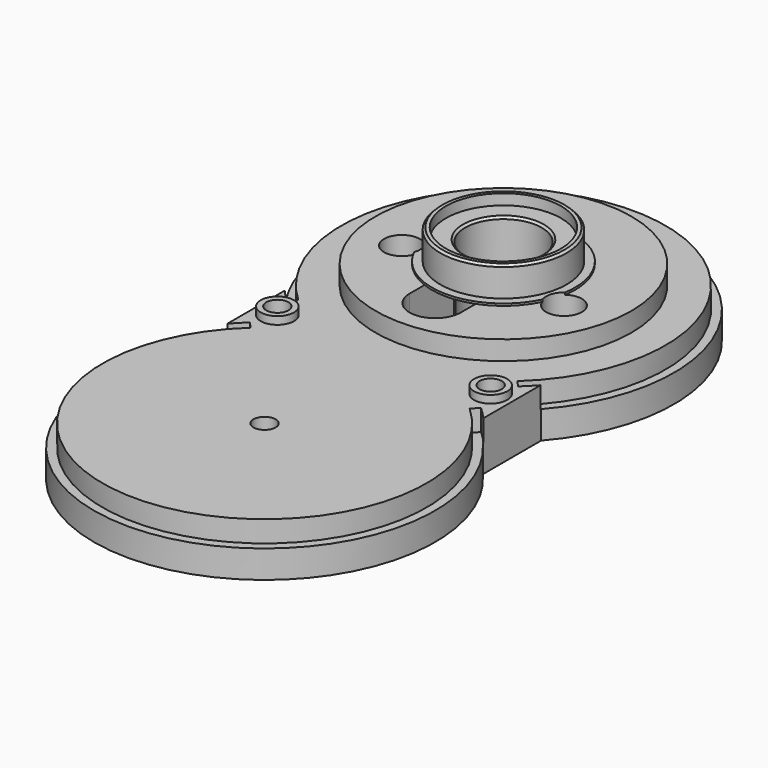
from build123d import *

# Parameters (mm, degrees)
SKETCH030_R     = 3.9
PAD005_DEPTH    = 1.8
SKETCH029_R     = 2.6
PAD006_DEPTH    = 11.5
SKETCH033_R     = 2.6
POCKET_DEPTH    = 14
POCKET011_DEPTH = 5
SKETCH034_R     = 3.15
POCKET012_DEPTH = 7.8
POCKET013_DEPTH = 16
SKETCH036_R     = 2
POCKET014_DEPTH = 16
SKETCH037_R     = 4.2
POCKET015_DEPTH = 13


with BuildPart() as part:
    # Sketch → Revolution (revolve)
    with BuildSketch(Plane.XZ):
        Polygon((13.5, 21), (13.5, 23.5), (14.3, 23.5), (14.8, 23), (14.8, 16.5), (16.75, 16.5), (16.75, 16), (30, 16), (30, 11.5), (40, 11.5), (40, 0), (10, 0), (9, 1), (9, 20.5), (9.5, 21), align=None)
    revolve(axis=Axis((0, 0, 0), (0, 0, 1)))

    # Sketch030 → Pad005 (new body)
    with BuildSketch(Plane.XY.offset(11.5)):
        with Locations((-25, -35)):
            Circle(SKETCH030_R)
        with Locations((25, -35)):
            Circle(SKETCH030_R)
    extrude(amount=PAD005_DEPTH)

    # Sketch029 → Pad006 (join)
    with BuildSketch(Plane.XY):
        with BuildLine():
            Line((-30, -26.457513), (-30, -43.542487))
            ThreePointArc((-30, -43.542487), (0, -110), (30, -43.542487))
            Line((30, -26.457513), (30, -43.542487))
            ThreePointArc((-30, -26.457513), (0, -40), (30, -26.457513))
        make_face()
        with Locations((0, -70)):
            Circle(SKETCH029_R, mode=Mode.SUBTRACT)
    extrude(amount=PAD006_DEPTH)

    # Sketch033 → Pocket (cut)
    with BuildSketch(Plane.XY):
        with Locations((-25, -35)):
            Circle(SKETCH033_R)
        with Locations((25, -35)):
            Circle(SKETCH033_R)
    extrude(amount=POCKET_DEPTH, mode=Mode.SUBTRACT)

    # Sketch031 → Pocket011 (cut)
    with BuildSketch(Plane.XY.offset(6.5)):
        with BuildLine():
            ThreePointArc((27.091167, -29.564821), (0, 40.1), (-27.091167, -29.564821))
            Line((-25.672428, -28.016539), (-27.091167, -29.564821))
            ThreePointArc((25.672428, -28.016539), (0, 38), (-25.672428, -28.016539))
            Line((25.672428, -28.016539), (27.091167, -29.564821))
        make_face()
        with BuildLine():
            ThreePointArc((-27.091167, -40.435179), (0, -110.1), (27.091167, -40.435179))
            Line((27.091167, -40.435179), (25.672428, -41.983461))
            ThreePointArc((-25.672428, -41.983461), (0, -108), (25.672428, -41.983461))
            Line((-27.091167, -40.435179), (-25.672428, -41.983461))
        make_face()
    extrude(amount=POCKET011_DEPTH, mode=Mode.SUBTRACT)

    # Sketch034 → Pocket012 (cut)
    with BuildSketch(Plane.XY):
        with Locations((-25, -35)):
            Circle(SKETCH034_R)
        with Locations((25, -35)):
            Circle(SKETCH034_R)
    extrude(amount=POCKET012_DEPTH, mode=Mode.SUBTRACT)

    # Sketch035 → Pocket013 (cut)
    with BuildSketch(Plane.XY):
        with BuildLine():
            Line((-6, -7), (-6, -20))
            ThreePointArc((-6, -20), (0, -26), (6, -20))
            Line((6, -7), (6, -20))
            Line((-6, -7), (6, -7))
        make_face()
    extrude(amount=POCKET013_DEPTH, mode=Mode.SUBTRACT)

    # Sketch036 → Pocket014 (cut)
    with BuildSketch(Plane.XY):
        with Locations((-19, -6)):
            Circle(SKETCH036_R)
        with Locations((19, -6)):
            Circle(SKETCH036_R)
    extrude(amount=POCKET014_DEPTH, mode=Mode.SUBTRACT)

    # Sketch037 → Pocket015 (cut)
    with BuildSketch(Plane.XY.offset(4)):
        with Locations((-19, -6)):
            Circle(SKETCH037_R)
        with Locations((19, -6)):
            Circle(SKETCH037_R)
    extrude(amount=POCKET015_DEPTH, mode=Mode.SUBTRACT)


solid = part.part
